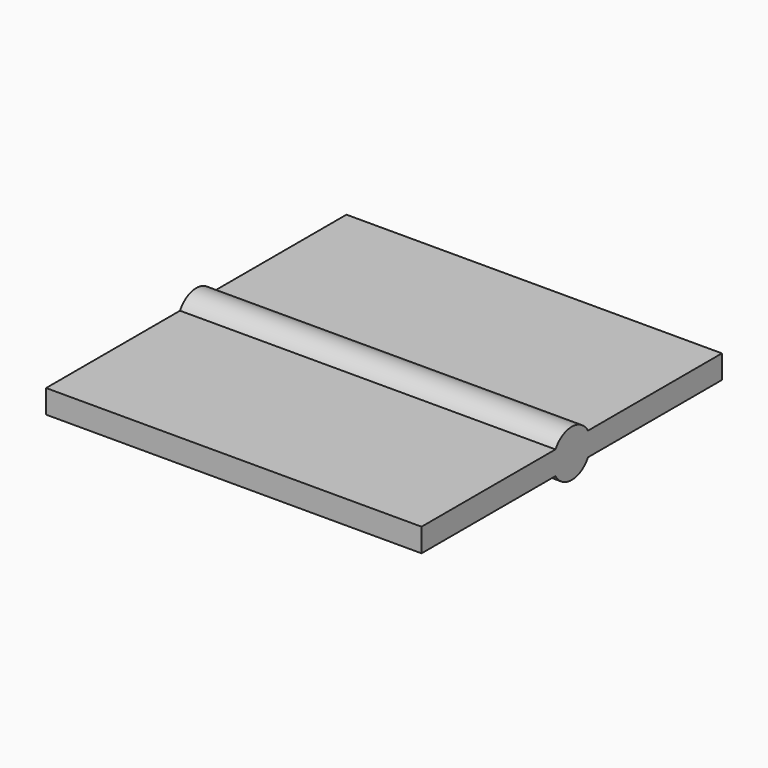
from build123d import *

# Parameters (mm, degrees)
F0_W     = 50.8
F0_H     = 50.8
F1_DEPTH = 3.175
F2_R     = 3.175
F3_DEPTH = 50.8


with BuildPart() as f1:
    # F0 (on Top) → F1 (new body)
    with BuildSketch(Plane.XY):
        Rectangle(F0_W, F0_H)
    extrude(amount=F1_DEPTH)

    # F2 (on face) → F3 (join, through all)
    with BuildSketch(Plane(origin=(-25.4, 0, 0), x_dir=(0, -1, 0), z_dir=(-1, 0, 0))):
        with Locations((0, 1.5875)):
            Circle(F2_R)
    extrude(amount=-F3_DEPTH)


solid = f1.part
